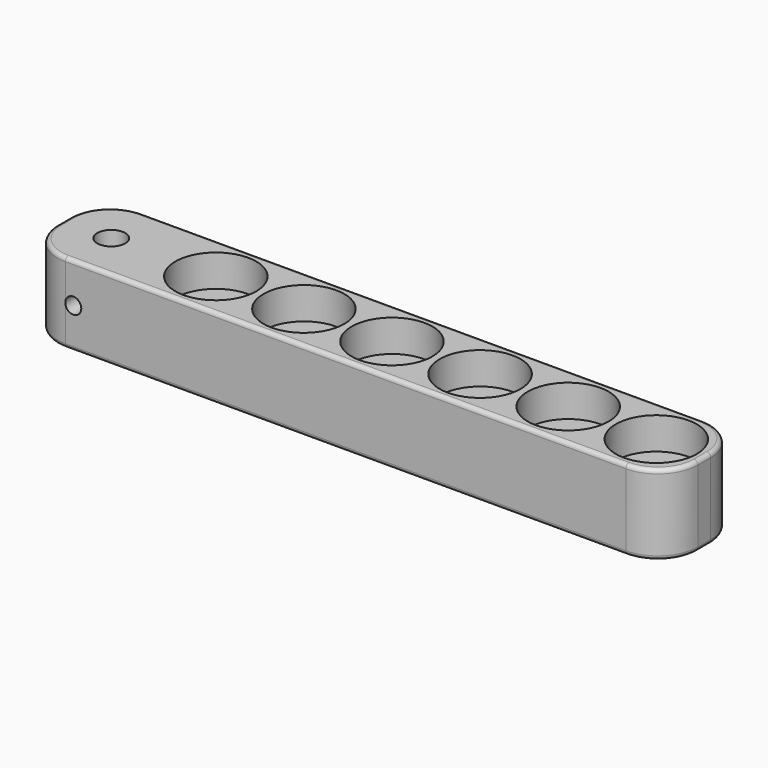
from build123d import *

# Parameters (mm, degrees)
F0_W      = 80
F0_H      = 12
F1_DEPTH  = 10
F2_R      = 5.05
F3_DEPTH  = 4
F4_R      = 5
F5_R      = 5
F6_R      = 1.75
F7_DEPTH  = 25
F8_R      = 0.5
F9_R      = 0.5
F10_R     = 1.75
F11_DEPTH = 25
F12_R     = 1
F13_DEPTH = 25


with BuildPart() as f1:
    # F0 (on Top) → F1 (new body)
    with BuildSketch(Plane.XY):
        Rectangle(F0_W, F0_H)
    extrude(amount=F1_DEPTH)

    # F2 (on face) → F3 (cut)
    with BuildSketch(Plane.XY.offset(10)):
        with Locations((34, 0)):
            Circle(F2_R)
        with Locations((23, 0)):
            Circle(F2_R)
        with Locations((12, 0)):
            Circle(F2_R)
        with Locations((1, 0)):
            Circle(F2_R)
        with Locations((-10, 0)):
            Circle(F2_R)
        with Locations((-21, 0)):
            Circle(F2_R)
    extrude(amount=-F3_DEPTH, mode=Mode.SUBTRACT)

    # F4
    f4_edges = [f1.edges().sort_by_distance(p)[0] for p in [
        (40, -6, 5),
    ]]
    fillet(f4_edges, radius=F4_R)

    # F5
    f5_edges = [f1.edges().sort_by_distance(p)[0] for p in [
        (40, 6, 5),
        (-40, -6, 5),
        (-40, 6, 5),
    ]]
    fillet(f5_edges, radius=F5_R)

    # F6 (on face) → F7 (cut)
    with BuildSketch(Plane.XY.offset(6)):
        with Locations((34, 0)):
            Circle(F6_R)
        with Locations((23, 0)):
            Circle(F6_R)
        with Locations((12, 0)):
            Circle(F6_R)
        with Locations((1, 0)):
            Circle(F6_R)
        with Locations((-10, 0)):
            Circle(F6_R)
        with Locations((-21, 0)):
            Circle(F6_R)
    extrude(amount=-F7_DEPTH, mode=Mode.SUBTRACT)

    # F8
    f8_edges = [f1.edges().sort_by_distance(p)[0] for p in [
        (0, -6, 10),
        (38.535534, -4.535534, 10),
        (38.535534, 4.535534, 10),
        (0, 6, 10),
        (-38.535534, -4.535534, 10),
    ]]
    fillet(f8_edges, radius=F8_R)

    # F9
    f9_edges = [f1.edges().sort_by_distance(p)[0] for p in [
        (0, -6, 0),
        (-38.535534, -4.535534, 0),
        (0, 6, 0),
        (38.535534, 4.535534, 0),
        (38.535534, -4.535534, 0),
    ]]
    fillet(f9_edges, radius=F9_R)

    # F10 (on face) → F11 (cut)
    with BuildSketch(Plane(origin=(0, 0, 0), x_dir=(1, 0, 0), z_dir=(0, 0, -1))):
        with Locations((-34, 0.0696202532)):
            Circle(F10_R)
    extrude(amount=-F11_DEPTH, mode=Mode.SUBTRACT)

    # F12 (on face) → F13 (cut)
    with BuildSketch(Plane(origin=(0, 6, 0), x_dir=(-1, 0, 0), z_dir=(0, 1, 0))):
        with Locations((34, 5)):
            Circle(F12_R)
    extrude(amount=-F13_DEPTH, mode=Mode.SUBTRACT)


solid = f1.part
